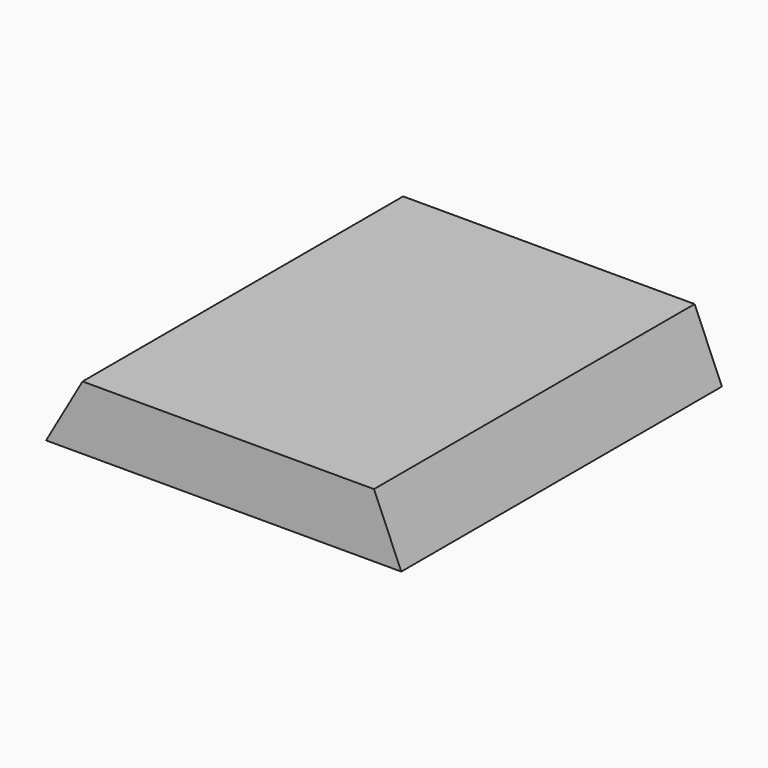
from build123d import *

# Parameters (mm, degrees)
F0_W     = 39
F0_H     = 44
F1_DEPTH = 7
F3_DEPTH = 44


with BuildPart() as f1:
    # F0 (on Top) → F1 (new body)
    with BuildSketch(Plane.XY):
        Rectangle(F0_W, F0_H)
    extrude(amount=F1_DEPTH)

    # F2 (on face) → F3 (cut)
    with BuildSketch(Plane.XZ.offset(22)):
        Polygon((-19.5, 7), (-19.5, 0), (-15.5, 7), align=None)
        Polygon((16.5, 7), (19.5, 0), (19.5, 7), align=None)
    extrude(amount=-F3_DEPTH, mode=Mode.SUBTRACT)


solid = f1.part
